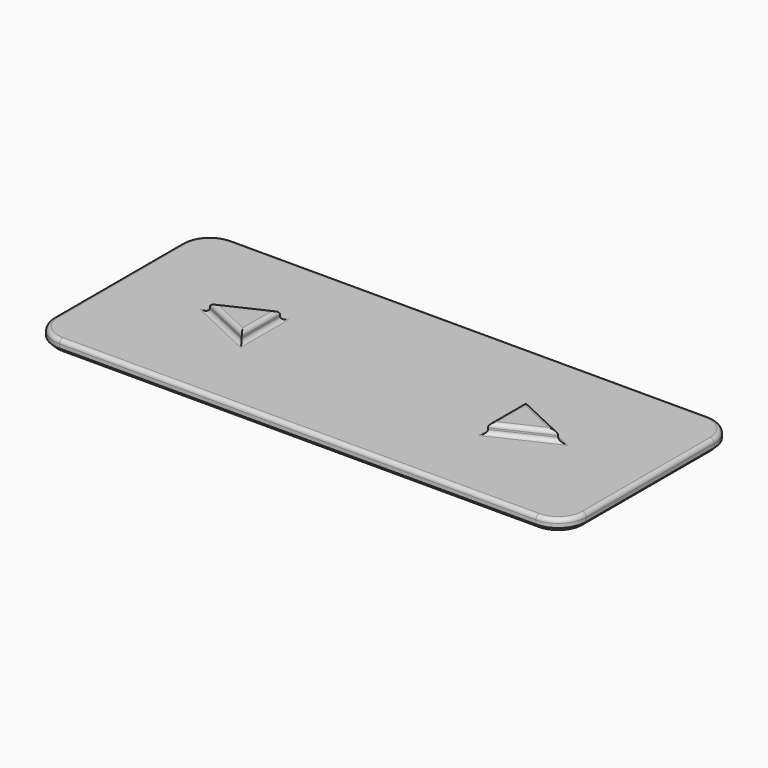
from build123d import *

# Parameters (mm, degrees)
F1_DEPTH = 1.5
F3_DEPTH = 1.2
F4_SIZE  = 0.5
F5_R     = 0.5


with BuildPart() as f1:
    # F0 (on Top) → F1 (new body)
    with BuildSketch(Plane.XY):
        with BuildLine():
            Line((-29.8, -13.5), (29.8, -13.5))
            ThreePointArc((29.8, -13.5), (32.274874, -12.474874), (33.3, -10))
            Line((33.3, -10), (33.3, 10))
            ThreePointArc((33.3, 10), (32.274874, 12.474874), (29.8, 13.5))
            Line((29.8, 13.5), (-29.8, 13.5))
            ThreePointArc((-29.8, 13.5), (-32.274874, 12.474874), (-33.3, 10))
            Line((-33.3, 10), (-33.3, -10))
            ThreePointArc((-33.3, -10), (-32.274874, -12.474874), (-29.8, -13.5))
        make_face()
    extrude(amount=F1_DEPTH)

    # F2 (on face) → F3 (join)
    with BuildSketch(Plane.XY.offset(1.5)):
        Polygon((-15.4, -3), (-15.4, 3), (-21.8, 0), align=None)
        Polygon((21.8, 0), (15.4, 3), (15.4, -3), align=None)
    extrude(amount=F3_DEPTH)

    # F4
    f4_edges = [f1.edges().sort_by_distance(p)[0] for p in [
        (0, -13.5, 0),
        (32.274874, -12.474874, 0),
        (33.3, 0, 0),
        (32.274874, 12.474874, 0),
        (0, 13.5, 0),
        (-32.274874, 12.474874, 0),
        (-33.3, 0, 0),
        (-32.274874, -12.474874, 0),
    ]]
    chamfer(f4_edges, length=F4_SIZE)

    # F5
    f5_edges = [f1.edges().sort_by_distance(p)[0] for p in [
        (-15.4, 0, 2.7),
        (-18.6, 1.5, 2.7),
        (-18.6, -1.5, 2.7),
        (18.6, 1.5, 2.7),
        (15.4, 0, 2.7),
        (18.6, -1.5, 2.7),
        (0, -13.5, 1.5),
        (-32.274874, -12.474874, 1.5),
        (32.274874, -12.474874, 1.5),
        (-33.3, 0, 1.5),
        (33.3, 0, 1.5),
        (-32.274874, 12.474874, 1.5),
        (32.274874, 12.474874, 1.5),
        (0, 13.5, 1.5),
        (-15.4, 0, 1.5),
        (-18.6, 1.5, 1.5),
        (-18.6, -1.5, 1.5),
        (18.6, 1.5, 1.5),
        (15.4, 0, 1.5),
        (18.6, -1.5, 1.5),
    ]]
    fillet(f5_edges, radius=F5_R)


solid = f1.part
